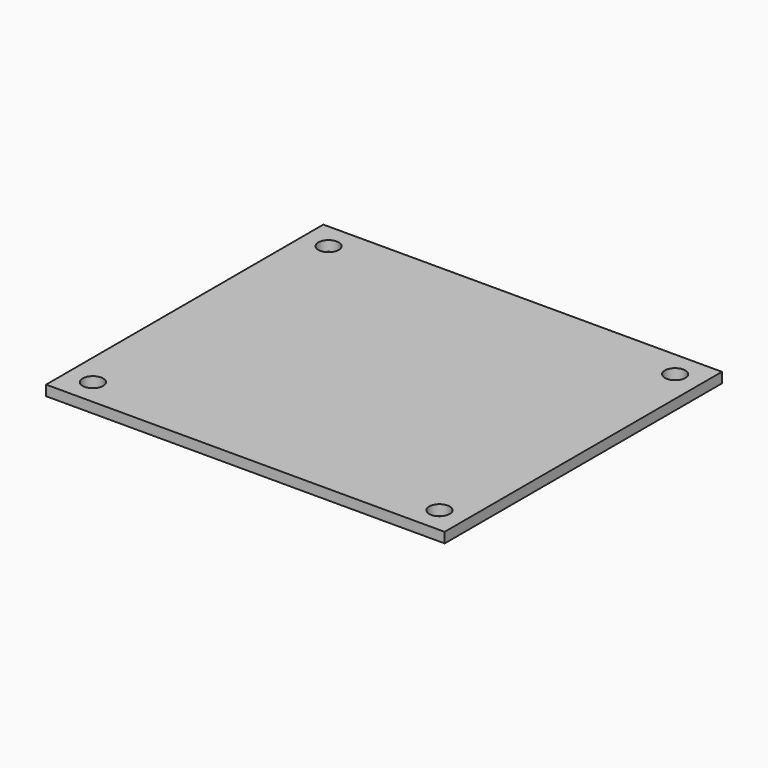
from build123d import *

# Parameters (mm, degrees)
SKETCH_W     = 58.42
SKETCH_H     = 50.8
PAD_DEPTH    = 1.5
SKETCH001_R  = 1.5
POCKET_DEPTH = 5


with BuildPart() as part:
    # Sketch → Pad (new body)
    with BuildSketch(Plane.XY):
        Rectangle(SKETCH_W, SKETCH_H)
    extrude(amount=PAD_DEPTH)

    # Sketch001 → Pocket (cut)
    with BuildSketch(Plane.XY.offset(1.5)):
        with Locations((-25.4, 21.59)):
            Circle(SKETCH001_R)
        with Locations((25.4, 21.59)):
            Circle(SKETCH001_R)
        with Locations((25.4, -21.59)):
            Circle(SKETCH001_R)
        with Locations((-25.4, -21.59)):
            Circle(SKETCH001_R)
    extrude(amount=-POCKET_DEPTH, mode=Mode.SUBTRACT)


solid = part.part
